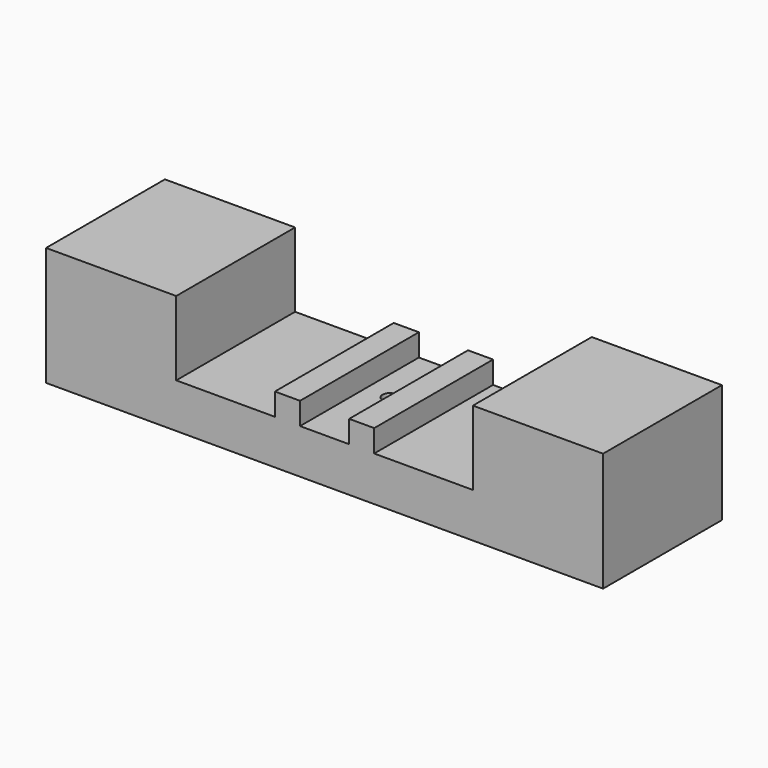
from build123d import *

# Parameters (mm, degrees)
F0_W           = 6.7710569128
F0_H           = 5.9977597557
F0_W_2         = 6.7485617474
F0_H_2         = 6.0202549212
F1_DEPTH       = 40
F3_D           = 4
F3_DEPTH       = 25
F3_CBORE_D     = 10
F3_CBORE_DEPTH = 4
F3_TIP         = 1.2017212381


with BuildPart() as f1:
    # F0 (on Front) → F1 (new body)
    with BuildSketch(Plane.XZ):
        Polygon((-39.9477705359, 16.0001330078), (-75.0000029802, 16.0001330078), (-75.0000029802, -16.0001199692), (75.0001370907, -16.0001199692), (75.0001370907, 16.0001330078), (39.9499982595, 16.0001330078), (39.9499982595, -3.9998986758), (13.365700841, -3.9998986758), (6.6171390936, -3.9998986758), (-6.6100424156, -3.9998986758), (-13.3810993284, -3.9998986758), (-39.9477705359, -3.9998986758), align=None)
        with Locations((-9.995570872, -1.001018798)):
            Rectangle(F0_W, F0_H)
        with Locations((9.9914199673, -0.9897712152)):
            Rectangle(F0_W_2, F0_H_2)
    extrude(amount=F1_DEPTH)

    # F3
    with Locations(Plane(origin=(0, 0, -16.0001199692), x_dir=(1, 0, 0), z_dir=(0, 0, -1))):
        with Locations((0, 18)):
            CounterBoreHole(F3_D / 2, F3_CBORE_D / 2, F3_CBORE_DEPTH, depth=F3_DEPTH)
            with Locations((0, 0, -(F3_DEPTH + F3_TIP / 2))):  # 118° drill point
                Cone(0, F3_D / 2, F3_TIP, mode=Mode.SUBTRACT)


solid = f1.part
